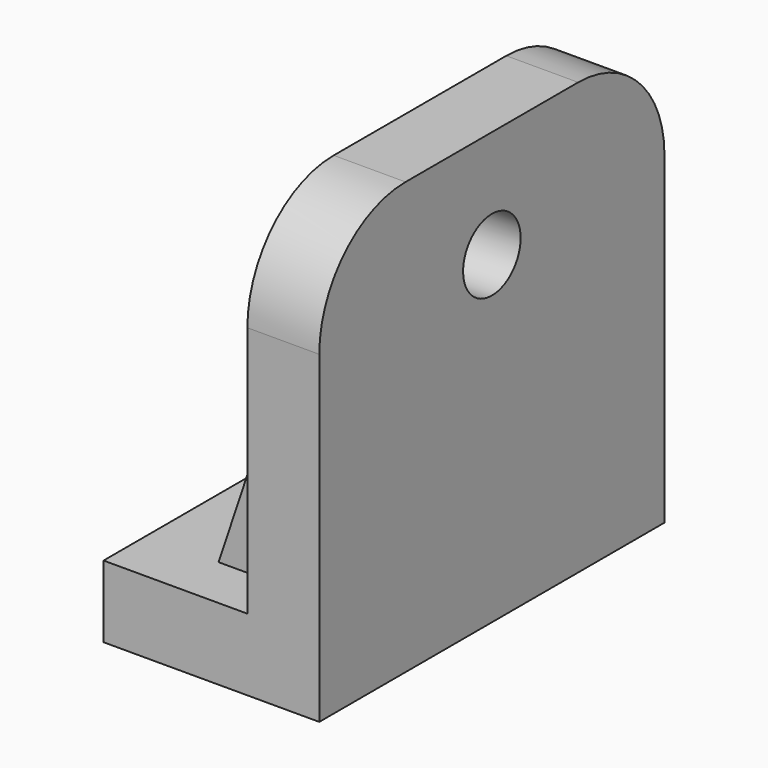
from build123d import *

# Parameters (mm, degrees)
F1_DEPTH  = 76.2
F2_R      = 12.7
F3_DEPTH  = 76.201
F5_DEPTH  = 25.401
F7_DEPTH  = 25.401
F8_R      = 19.05
F8_R_2    = 12.7
F9_DEPTH  = 6.35
F12_DEPTH = 12.7


with BuildPart() as f1:
    # F0 (on Front) → F1 (new body, symmetric)
    with BuildSketch(Plane.XZ):
        Polygon((0, 0), (0, 152.4), (-25.4, 152.4), (-25.4, 25.4), (-76.2, 25.4), (-76.2, 0), align=None)
    extrude(amount=F1_DEPTH, both=True)

    # F2 (on face) → F3 (cut, through all)
    with BuildSketch(Plane.YZ):
        with Locations((0, 114.3)):
            Circle(F2_R)
    extrude(amount=-F3_DEPTH, mode=Mode.SUBTRACT)

    # F4 (on face) → F5 (cut, through all)
    with BuildSketch(Plane.XY.offset(25.4)):
        with BuildLine():
            Line((-76.2, 12.7), (-76.2, -12.7))
            Line((-76.2, -12.7), (-63.5, -12.7))
            ThreePointArc((-63.5, -12.7), (-50.8, 0), (-63.5, 12.7))
            Line((-63.5, 12.7), (-76.2, 12.7))
        make_face()
    extrude(amount=-F5_DEPTH, mode=Mode.SUBTRACT)

    # F6 (on face) → F7 (cut, through all)
    with BuildSketch(Plane(origin=(-25.4, 0, 0), x_dir=(0, -1, 0), z_dir=(-1, 0, 0))):
        with BuildLine():
            Line((-76.2, 152.4), (-76.2, 114.3))
            ThreePointArc((-76.2, 114.3), (-65.0407683632, 141.2407683632), (-38.1, 152.4))
            Line((-38.1, 152.4), (-76.2, 152.4))
        make_face()
        with BuildLine():
            ThreePointArc((38.1, 152.4), (65.0407683632, 141.2407683632), (76.2, 114.3))
            Line((76.2, 114.3), (76.2, 152.4))
            Line((76.2, 152.4), (38.1, 152.4))
        make_face()
    extrude(amount=-F7_DEPTH, mode=Mode.SUBTRACT)

    # F8 (on face) → F9 (cut)
    with BuildSketch(Plane(origin=(-25.4, 0, 0), x_dir=(0, -1, 0), z_dir=(-1, 0, 0))):
        with Locations((0, 114.3)):
            Circle(F8_R)
        with Locations((0, 114.3)):
            Circle(F8_R_2, mode=Mode.SUBTRACT)
    extrude(amount=-F9_DEPTH, mode=Mode.SUBTRACT)

    # F11 (on offset) → F12 (join)
    with BuildSketch(Plane.XZ.offset(44.45)):
        Polygon((-25.4, 101.6), (-50.8, 25.4), (-25.4, 25.4), align=None)
    extrude(amount=F12_DEPTH)


solid = f1.part
